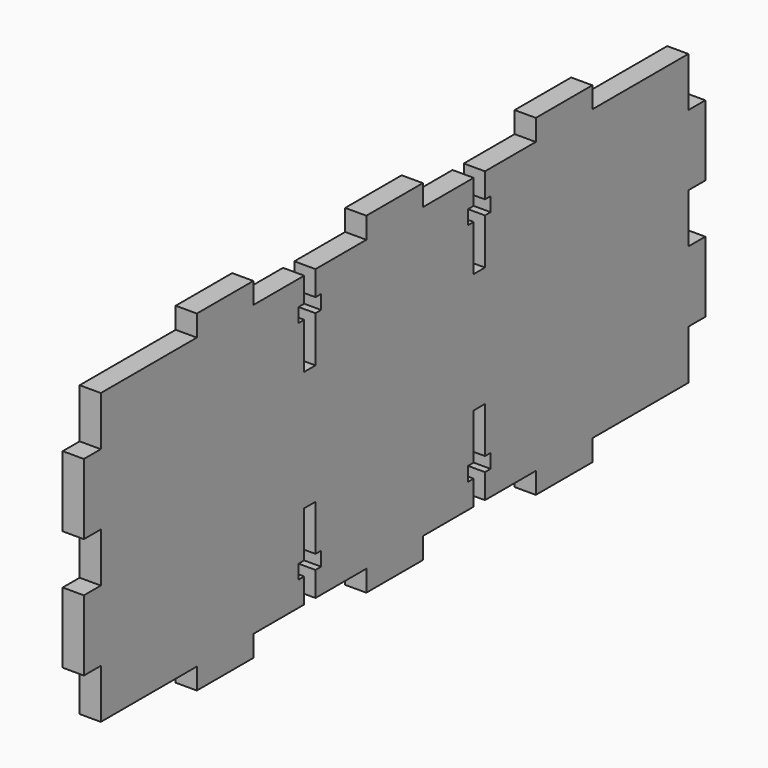
from build123d import *

# Parameters (mm, degrees)
F1_DEPTH = 3


with BuildPart() as f1:
    # F0 (on Right) → F1 (new body)
    with BuildSketch(Plane.YZ):
        Polygon((-52.377451, -13.384804), (-52.377451, -20.384804), (-35.377451, -20.384804), (-35.377451, -23.384804), (-25.377451, -23.384804), (-25.377451, -20.384804), (-16.377451, -20.384804), (-16.377451, -16.884804), (-17.377451, -16.884804), (-17.377451, -14.884804), (-16.377451, -14.884804), (-16.377451, -8.384804), (-14.377451, -8.384804), (-14.377451, -14.884804), (-13.377451, -14.884804), (-13.377451, -16.884804), (-14.377451, -16.884804), (-14.377451, -20.384804), (-5.377451, -20.384804), (-5.377451, -23.384804), (-0.377451, -23.384804), (4.622549, -23.384804), (4.622549, -20.384804), (13.622549, -20.384804), (13.622549, -16.884804), (12.622549, -16.884804), (12.622549, -14.884804), (13.622549, -14.884804), (13.622549, -8.384804), (15.622549, -8.384804), (15.622549, -14.884804), (16.622549, -14.884804), (16.622549, -16.884804), (15.622549, -16.884804), (15.622549, -20.384804), (24.622549, -20.384804), (24.622549, -23.384804), (34.622549, -23.384804), (34.622549, -20.384804), (51.622549, -20.384804), (51.622549, -13.384804), (54.622549, -13.384804), (54.622549, -3.384804), (51.622549, -3.384804), (51.622549, 0.115196), (51.622549, 3.615196), (54.622549, 3.615196), (54.622549, 13.615196), (51.622549, 13.615196), (51.622549, 20.615196), (34.622549, 20.615196), (34.622549, 23.615196), (24.622549, 23.615196), (24.622549, 20.615196), (15.622549, 20.615196), (15.622549, 17.115196), (16.622549, 17.115196), (16.622549, 15.115196), (15.622549, 15.115196), (15.622549, 8.615196), (13.622549, 8.615196), (13.622549, 15.115196), (12.622549, 15.115196), (12.622549, 17.115196), (13.622549, 17.115196), (13.622549, 20.615196), (4.622549, 20.615196), (4.622549, 23.615196), (-0.377451, 23.615196), (-5.377451, 23.615196), (-5.377451, 20.615196), (-14.377451, 20.615196), (-14.377451, 17.115196), (-13.377451, 17.115196), (-13.377451, 15.115196), (-14.377451, 15.115196), (-14.377451, 8.615196), (-16.377451, 8.615196), (-16.377451, 15.115196), (-17.377451, 15.115196), (-17.377451, 17.115196), (-16.377451, 17.115196), (-16.377451, 20.615196), (-25.377451, 20.615196), (-25.377451, 23.615196), (-35.377451, 23.615196), (-35.377451, 20.615196), (-52.377451, 20.615196), (-52.377451, 13.615196), (-55.377451, 13.615196), (-55.377451, 3.615196), (-52.377451, 3.615196), (-52.377451, 0.115196), (-52.377451, -3.384804), (-55.377451, -3.384804), (-55.377451, -13.384804), align=None)
    extrude(amount=F1_DEPTH)


solid = f1.part
